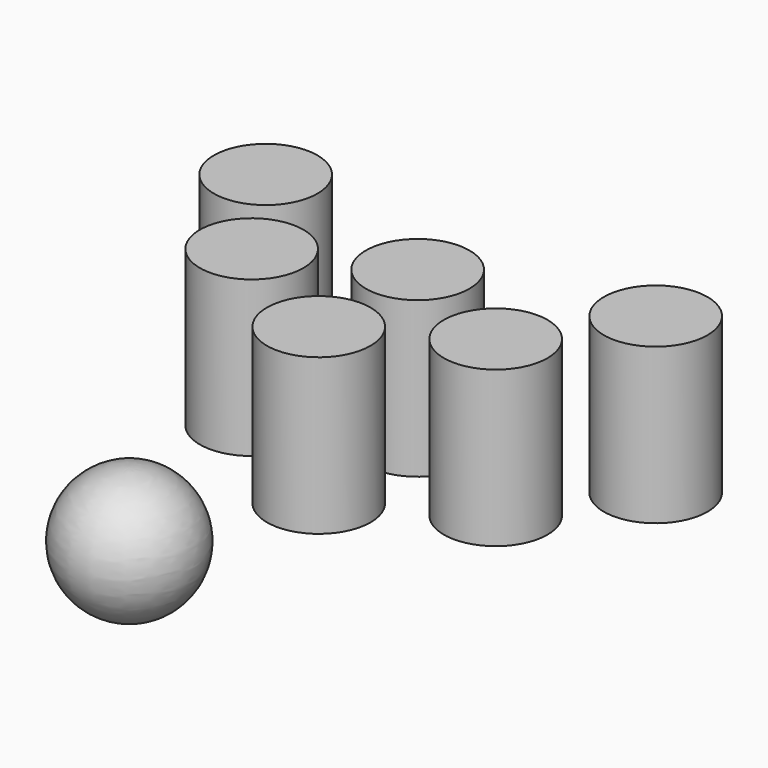
from build123d import *

# Parameters (mm, degrees)
F2_R     = 20
F3_DEPTH = 60


with BuildPart() as f1:
    # F0 (on Right) → F1 (revolve)
    with BuildSketch(Plane.YZ):
        with BuildLine():
            Line((-98.257384, -0.72008), (-98.257384, 49.27992))
            ThreePointArc((-98.257384, 49.27992), (-123.342137, 24.27992), (-98.257384, -0.72008))
        make_face()
    revolve(axis=Axis((0, -98.257384, 24.27992), (0, 0, -1)))


with BuildPart() as f3:
    # F2 (on Top) → F3 (new body)
    with BuildSketch(Plane.XY):
        with Locations((-74.550845, 60.739499)):
            Circle(F2_R)
        with Locations((-47.518242, 20.190604)):
            Circle(F2_R)
        with Locations((0, -6.841997)):
            Circle(F2_R)
        with Locations((0, 40.887438)):
            Circle(F2_R)
        with Locations((46.673469, 20.190604)):
            Circle(F2_R)
        with Locations((74.973226, 62.00666)):
            Circle(F2_R)
    extrude(amount=F3_DEPTH)


solid = Compound([f1.part, f3.part])
